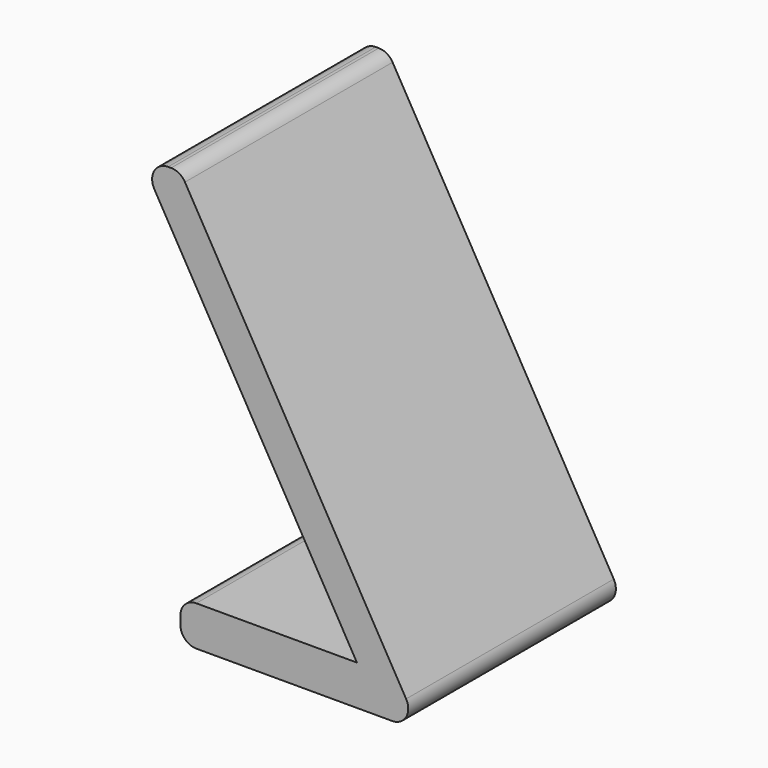
from build123d import *

# Parameters (mm, degrees)
PAD_DEPTH = 65
FILLET_R  = 4


with BuildPart() as part:
    # Sketch → Pad (new body)
    with BuildSketch(Plane.XZ):
        Polygon((-60, 103.923048), (0, 0), (-60, 0), (-60, 10), (-15.773503, 10), (-70, 103.923048), align=None)
    extrude(amount=PAD_DEPTH)

    # Fillet
    fillet_edges = [part.edges().sort_by_distance(p)[0] for p in [
        (0, -32.5, 0),
        (-60, -32.5, 0),
        (-60, -32.5, 10),
        (-70, -32.5, 103.923048),
        (-60, -32.5, 103.923048),
    ]]
    fillet(fillet_edges, radius=FILLET_R)


solid = part.part
